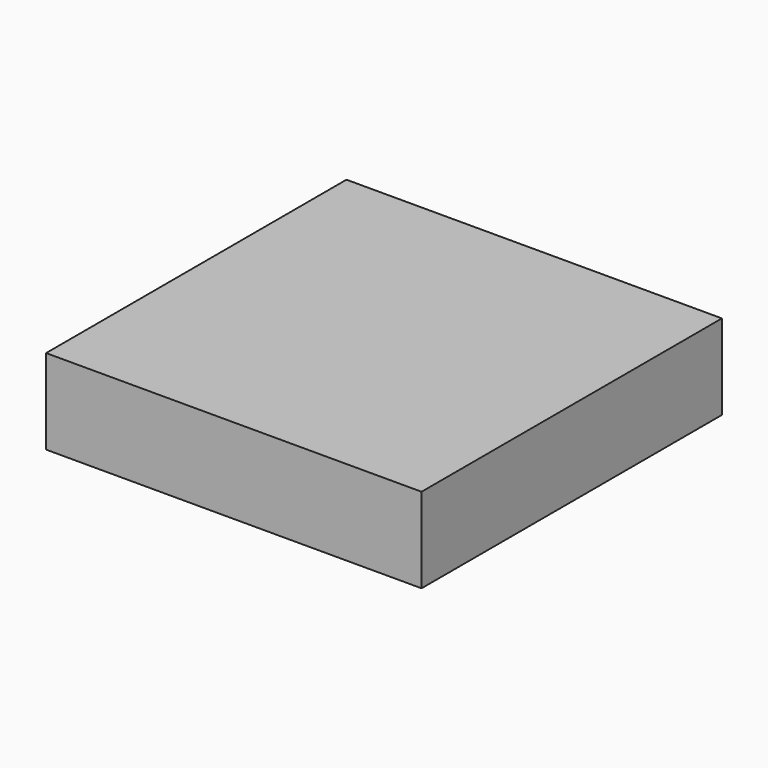
from build123d import *

# Parameters (mm, degrees)
BOX001_W     = 10
BOX001_H     = 10
BOX001_DEPTH = 10
BOX002_W     = 10
BOX002_H     = 10
BOX002_DEPTH = 10
BOX003_W     = 10
BOX003_H     = 10
BOX003_DEPTH = 10
BOX004_W     = 10
BOX004_H     = 10
BOX004_DEPTH = 10
BOX005_W     = 10
BOX005_H     = 10
BOX005_DEPTH = 10
BOX006_W     = 10
BOX006_H     = 10
BOX006_DEPTH = 10
BOX007_W     = 10
BOX007_H     = 10
BOX007_DEPTH = 10
BOX008_W     = 10
BOX008_H     = 10
BOX008_DEPTH = 10
BOX009_W     = 10
BOX009_H     = 10
BOX009_DEPTH = 10
BOX012_W     = 48
BOX012_H     = 48
BOX012_DEPTH = 3
BOX011_W     = 48
BOX011_H     = 48
BOX011_DEPTH = 3
BOX_W        = 46
BOX_H        = 46
BOX_DEPTH    = 9
BOX010_W     = 50
BOX010_H     = 50
BOX010_DEPTH = 12
BOX013_W     = 53
BOX013_H     = 53
BOX013_DEPTH = 12


with BuildPart() as cube001:
    # Box001 → Box001 (new body)
    with BuildSketch(Plane(origin=(3, 3, 0), x_dir=(1, 0, 0), z_dir=(0, 0, 1))):
        with Locations((5, 5)):
            Rectangle(BOX001_W, BOX001_H)
    extrude(amount=BOX001_DEPTH)


with BuildPart() as cube002:
    # Box002 → Box002 (new body)
    with BuildSketch(Plane(origin=(18, 3, 0), x_dir=(1, 0, 0), z_dir=(0, 0, 1))):
        with Locations((5, 5)):
            Rectangle(BOX002_W, BOX002_H)
    extrude(amount=BOX002_DEPTH)


with BuildPart() as cube003:
    # Box003 → Box003 (new body)
    with BuildSketch(Plane(origin=(33, 3, 0), x_dir=(1, 0, 0), z_dir=(0, 0, 1))):
        with Locations((5, 5)):
            Rectangle(BOX003_W, BOX003_H)
    extrude(amount=BOX003_DEPTH)


with BuildPart() as cube004:
    # Box004 → Box004 (new body)
    with BuildSketch(Plane(origin=(3, 18, 0), x_dir=(1, 0, 0), z_dir=(0, 0, 1))):
        with Locations((5, 5)):
            Rectangle(BOX004_W, BOX004_H)
    extrude(amount=BOX004_DEPTH)


with BuildPart() as cube005:
    # Box005 → Box005 (new body)
    with BuildSketch(Plane(origin=(18, 18, 0), x_dir=(1, 0, 0), z_dir=(0, 0, 1))):
        with Locations((5, 5)):
            Rectangle(BOX005_W, BOX005_H)
    extrude(amount=BOX005_DEPTH)


with BuildPart() as cube006:
    # Box006 → Box006 (new body)
    with BuildSketch(Plane(origin=(33, 18, 0), x_dir=(1, 0, 0), z_dir=(0, 0, 1))):
        with Locations((5, 5)):
            Rectangle(BOX006_W, BOX006_H)
    extrude(amount=BOX006_DEPTH)


with BuildPart() as cube007:
    # Box007 → Box007 (new body)
    with BuildSketch(Plane(origin=(3, 33, 0), x_dir=(1, 0, 0), z_dir=(0, 0, 1))):
        with Locations((5, 5)):
            Rectangle(BOX007_W, BOX007_H)
    extrude(amount=BOX007_DEPTH)


with BuildPart() as cube008:
    # Box008 → Box008 (new body)
    with BuildSketch(Plane(origin=(18, 33, 0), x_dir=(1, 0, 0), z_dir=(0, 0, 1))):
        with Locations((5, 5)):
            Rectangle(BOX008_W, BOX008_H)
    extrude(amount=BOX008_DEPTH)


with BuildPart() as cube009:
    # Box009 → Box009 (new body)
    with BuildSketch(Plane(origin=(33, 33, 0), x_dir=(1, 0, 0), z_dir=(0, 0, 1))):
        with Locations((5, 5)):
            Rectangle(BOX009_W, BOX009_H)
    extrude(amount=BOX009_DEPTH)


with BuildPart() as cube012:
    # Box012 → Box012 (new body)
    with BuildSketch(Plane(origin=(-1, -1, 9), x_dir=(1, 0, 0), z_dir=(0, 0, 1))):
        with Locations((24, 24)):
            Rectangle(BOX012_W, BOX012_H)
    extrude(amount=BOX012_DEPTH)


with BuildPart() as cube011:
    # Box011 → Box011 (new body)
    with BuildSketch(Plane(origin=(-1, -1, 9), x_dir=(1, 0, 0), z_dir=(0, 0, 1))):
        with Locations((24, 24)):
            Rectangle(BOX011_W, BOX011_H)
    extrude(amount=BOX011_DEPTH)


with BuildPart() as cube:
    # Box → Box (new body)
    with BuildSketch(Plane.XY.offset(3)):
        with Locations((23, 23)):
            Rectangle(BOX_W, BOX_H)
    extrude(amount=BOX_DEPTH)


with BuildPart() as cut001:
    # Box010 → Box010 (new body)
    with BuildSketch(Plane(origin=(-2, -2, 0), x_dir=(1, 0, 0), z_dir=(0, 0, 1))):
        with Locations((25, 25)):
            Rectangle(BOX010_W, BOX010_H)
    extrude(amount=BOX010_DEPTH)

    # Cut: cut Cube
    add(cube.part, mode=Mode.SUBTRACT)

    # Cut001: cut Cube011
    add(cube011.part, mode=Mode.SUBTRACT)


with BuildPart() as cube013:
    # Box013 → Box013 (new body)
    with BuildSketch(Plane(origin=(-3.5, -3.5, 0), x_dir=(1, 0, 0), z_dir=(0, 0, 1))):
        with Locations((26.5, 26.5)):
            Rectangle(BOX013_W, BOX013_H)
    extrude(amount=BOX013_DEPTH)


solid = Compound([cube001.part, cube002.part, cube003.part, cube004.part, cube005.part, cube006.part, cube007.part, cube008.part, cube009.part, cube012.part, cut001.part, cube013.part])
